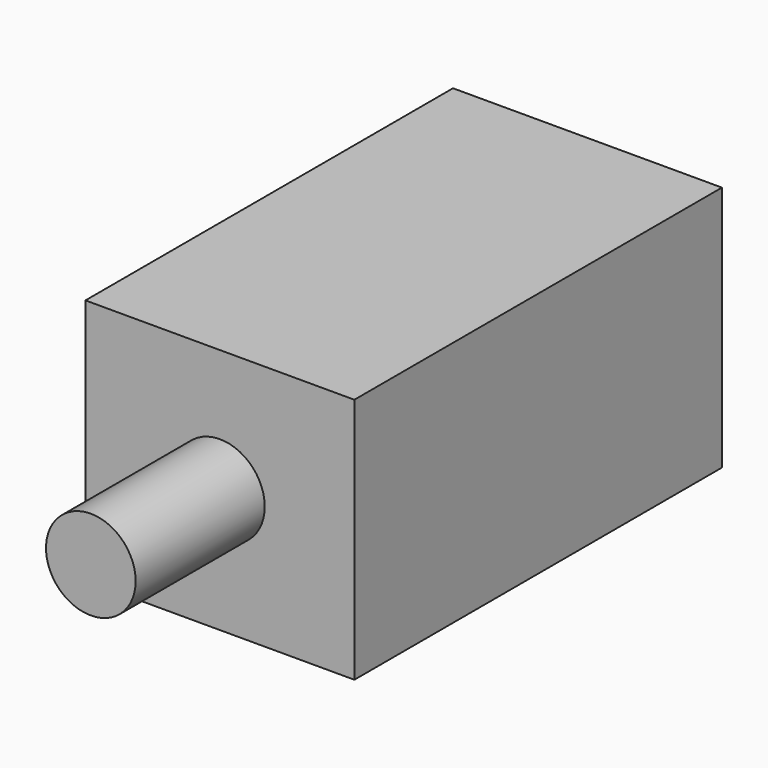
from build123d import *

# Parameters (mm, degrees)
F0_W     = 12
F0_H     = 11
F1_DEPTH = 20.5
F2_R     = 2
F3_DEPTH = 7.2
F4_R     = 0.8
F5_DEPTH = 1
F6_R     = 1.5
F6_R_2   = 0.8
F7_DEPTH = 1.4


with BuildPart() as f1:
    # F0 (on Front) → F1 (new body)
    with BuildSketch(Plane.XZ):
        Rectangle(F0_W, F0_H)
    extrude(amount=F1_DEPTH)

    # F2 (on face) → F3 (join)
    with BuildSketch(Plane.XZ.offset(20.5)):
        Circle(F2_R)
    extrude(amount=F3_DEPTH)

    # F4 (on face) → F5 (join)
    with BuildSketch(Plane(origin=(0, 0, 0), x_dir=(-1, 0, 0), z_dir=(0, 1, 0))):
        Circle(F4_R)
    extrude(amount=F5_DEPTH)

    # F6 (on face) → F7 (join)
    with BuildSketch(Plane(origin=(0, 1, 0), x_dir=(-1, 0, 0), z_dir=(0, 1, 0))):
        Circle(F6_R)
        Circle(F6_R_2, mode=Mode.SUBTRACT)
        Circle(F6_R_2)
    extrude(amount=F7_DEPTH)


solid = f1.part
